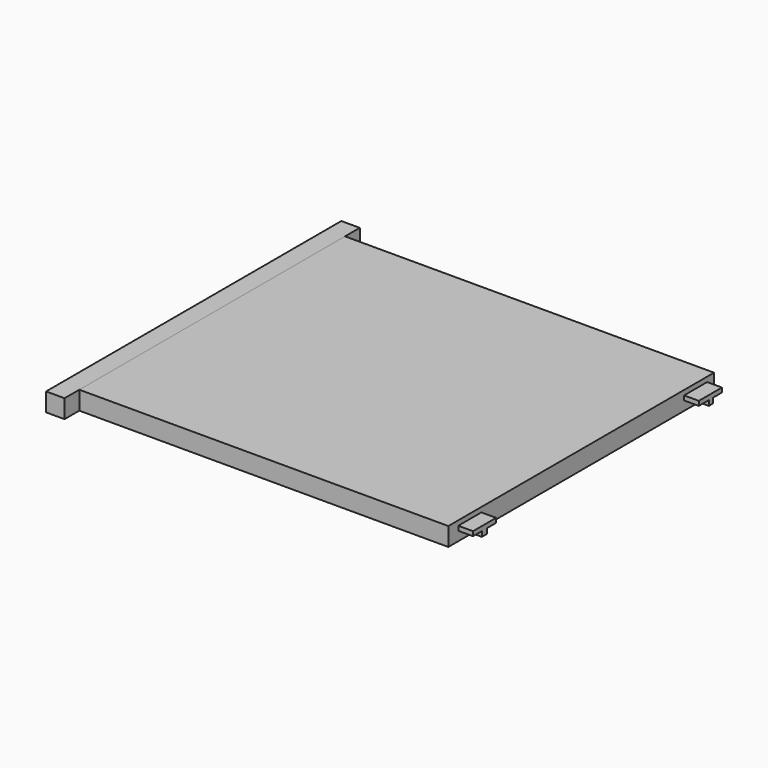
from build123d import *

# Parameters (mm, degrees)
F0_W     = 508
F0_H     = 457.2
F1_DEPTH = 25.4
F3_DEPTH = 25.4
F5_DEPTH = 20.32


with BuildPart() as f1:
    # F0 (on Top) → F1 (new body)
    with BuildSketch(Plane.XY):
        with Locations((23.170052, -87.840116)):
            Rectangle(F0_W, F0_H)
    extrude(amount=F1_DEPTH)

    # F4 (on face) → F5 (join)
    with BuildSketch(Plane.YZ.offset(277.170052)):
        Polygon((-259.626299, 18.825883), (-299.369812, 18.825883), (-299.369812, 12.7), (-284.204543, 12.7), (-284.204543, 5.752353), (-275.31454, 5.752353), (-275.31454, 12.7), (-259.626299, 12.7), align=None)
        Polygon((89.175463, 18.825883), (89.175463, 12.7), (106.74534, 12.7), (106.74534, 5.46798), (113.230765, 5.752353), (113.230765, 12.7), (128.919005, 12.7), (128.919005, 18.825883), align=None)
    extrude(amount=F5_DEPTH)


with BuildPart() as f3:
    # F2 (on face) → F3 (new body, through all)
    with BuildSketch(Plane(origin=(0, 0, 0), x_dir=(1, 0, 0), z_dir=(0, 0, -1))):
        Polygon((-230.829948, 316.440116), (-230.829948, 341.840116), (-256.229948, 341.840116), (-256.229948, -166.159884), (-230.829948, -166.159884), (-230.829948, -140.759884), align=None)
    extrude(amount=-F3_DEPTH)


solid = Compound([f1.part, f3.part])
